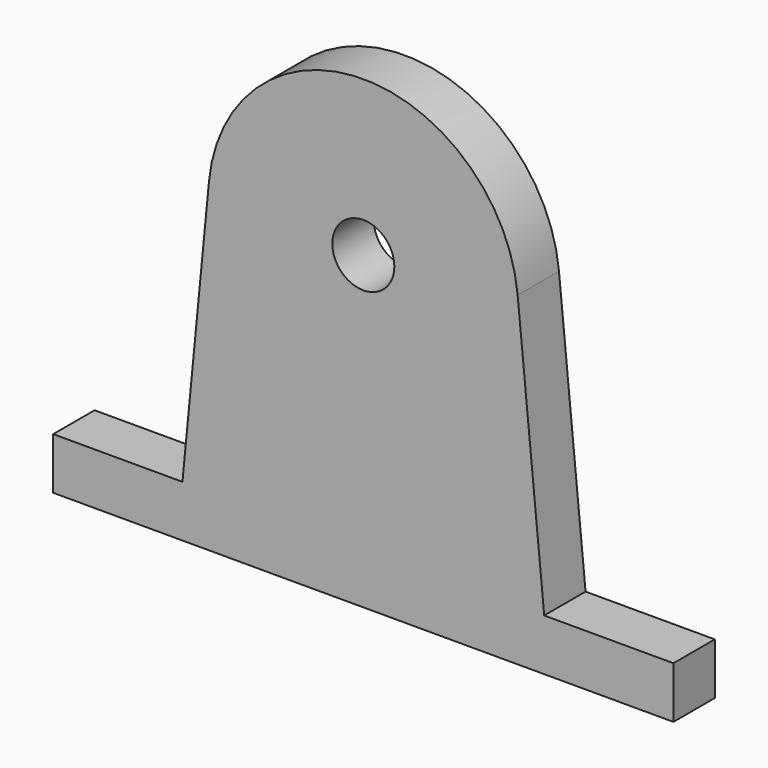
from build123d import *

# Parameters (mm, degrees)
F0_R     = 6
F1_DEPTH = 10


with BuildPart() as f1:
    # F0 (on Front) → F1 (new body)
    with BuildSketch(Plane.XZ):
        with BuildLine():
            Line((35, 0), (29.859354, 52.901548))
            ThreePointArc((29.859354, 52.901548), (0, 80), (-29.859354, 52.901548))
            Line((-29.859354, 52.901548), (-35, 0))
            Line((-35, 0), (-60, 0))
            Line((-60, 0), (-60, -10))
            Line((-60, -10), (60, -10))
            Line((60, -10), (60, 0))
            Line((60, 0), (35, 0))
        make_face()
        with Locations((0, 50)):
            Circle(F0_R, mode=Mode.SUBTRACT)
    extrude(amount=F1_DEPTH)


solid = f1.part
